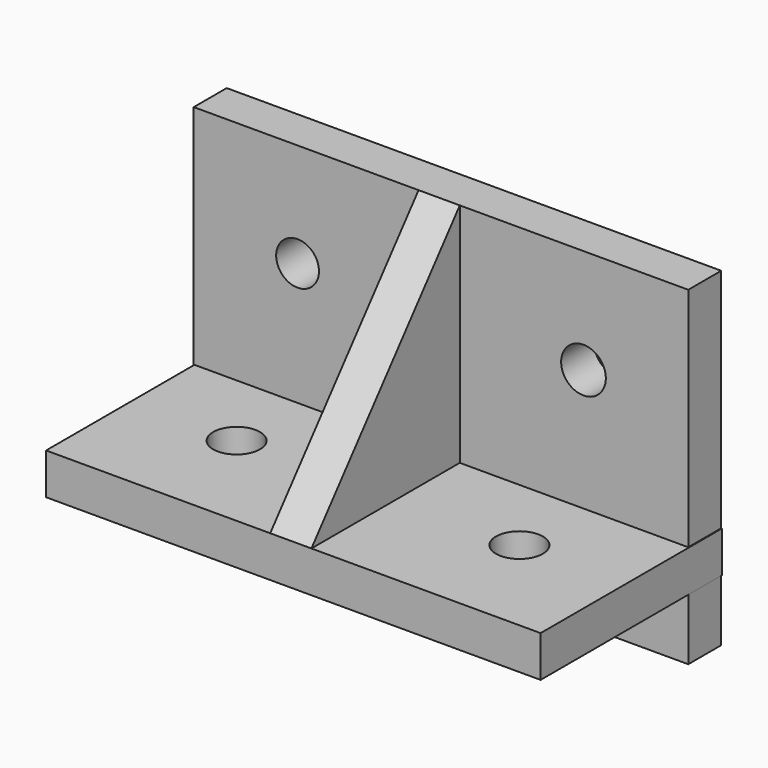
from build123d import *

# Parameters (mm, degrees)
F0_W     = 120
F0_H     = 80
F0_R     = 5.19491
F0_R_2   = 5.424314
F1_DEPTH = 10
F2_W     = 120
F2_H     = 10
F3_DEPTH = 55
F4_R     = 5.684537
F4_R_2   = 5.694204
F5_DEPTH = 10
F6_W     = 10
F6_H     = 45
F7_DEPTH = 55
F9_DEPTH = 25


with BuildPart() as f1:
    # F0 (on Front) → F1 (new body)
    with BuildSketch(Plane.XZ):
        Rectangle(F0_W, F0_H)
        with Locations((-34.80509, 14.80509)):
            Circle(F0_R, mode=Mode.SUBTRACT)
        with Locations((34.575686, 14.575686)):
            Circle(F0_R_2, mode=Mode.SUBTRACT)
    extrude(amount=F1_DEPTH)

    # F2 (on Front) → F3 (join)
    with BuildSketch(Plane.XZ):
        with Locations((0.167052, -20)):
            Rectangle(F2_W, F2_H)
    extrude(amount=F3_DEPTH)

    # F4 (on face) → F5 (cut)
    with BuildSketch(Plane.XY.offset(-15)):
        with Locations((-34.148411, -29.315463)):
            Circle(F4_R)
        with Locations((34.472848, -29.305796)):
            Circle(F4_R_2)
    extrude(amount=-F5_DEPTH, mode=Mode.SUBTRACT)

    # F6 (on face) → F7 (join)
    with BuildSketch(Plane.XY.offset(-15)):
        with Locations((-0.443549, -32.5)):
            Rectangle(F6_W, F6_H)
    extrude(amount=F7_DEPTH)

    # F8 (on face) → F9 (cut)
    with BuildSketch(Plane.YZ.offset(4.556451)):
        Polygon((-55, -15), (-10, 40), (-55, 40), align=None)
    extrude(amount=-F9_DEPTH, mode=Mode.SUBTRACT)


solid = f1.part
